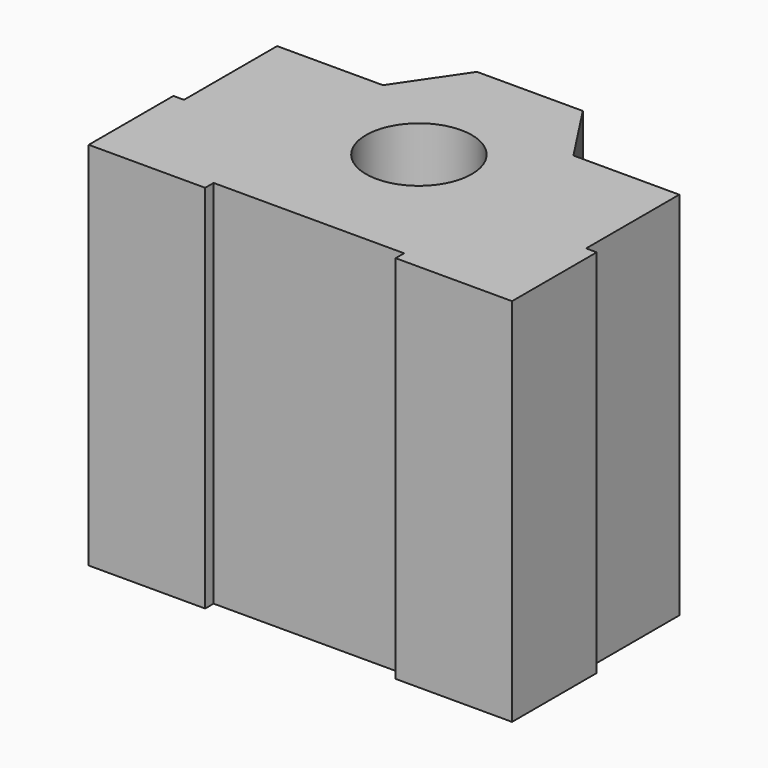
from build123d import *

# Parameters (mm, degrees)
SKETCH_R      = 5
EXTRUDE_DEPTH = 35


with BuildPart() as part:
    # Sketch → Extrude (new body)
    with BuildSketch(Plane.XY):
        Polygon((35.537415, 23.108666), (35.537415, 33.108666), (36.537415, 33.108666), (36.537415, 44.108666), (46.537415, 44.108666), (50.62235, 50.108666), (60.62235, 50.108666), (64.537415, 44.108666), (74.537415, 44.108666), (74.537415, 33.108666), (75.537415, 33.108666), (75.537415, 23.108666), (64.537415, 23.108666), (64.537415, 24.108666), (46.537415, 24.108666), (46.537415, 23.108666), align=None)
        with Locations((55.537415, 37.108666)):
            Circle(SKETCH_R, mode=Mode.SUBTRACT)
    extrude(amount=EXTRUDE_DEPTH)


solid = part.part
